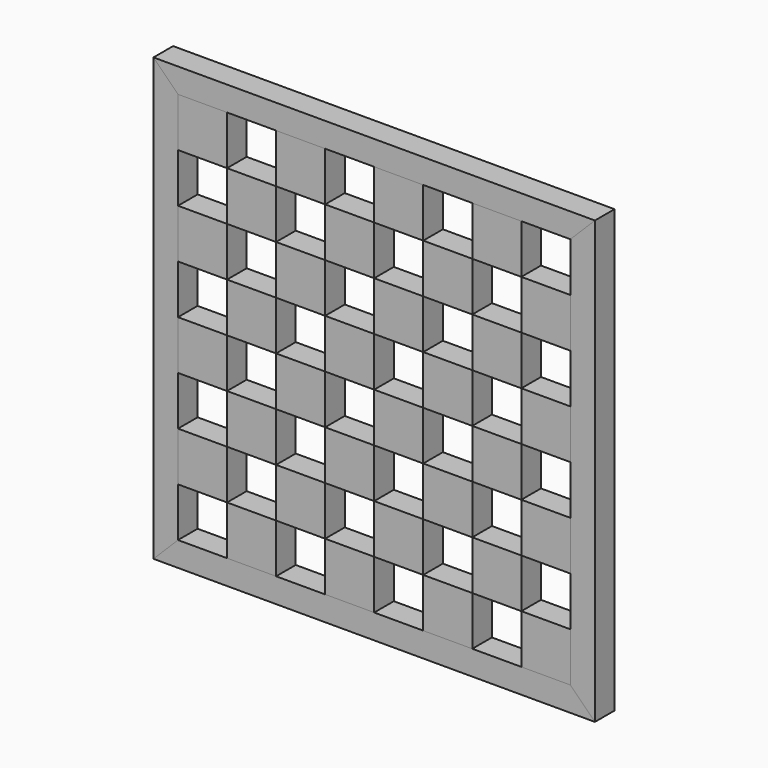
from build123d import *

# Parameters (mm, degrees)
F2_DEPTH = 19.05
F3_DEPTH = 19.05
F4_DEPTH = 19.05
F5_DEPTH = 19.05
F6_W     = 38.1
F6_H     = 38.1
F7_DEPTH = 19.05


with BuildPart() as f2:
    # F1 (on Front) → F2 (new body)
    with BuildSketch(Plane.XZ):
        Polygon((-171.45, 171.45), (-171.45, -171.45), (-152.4, -152.4), (-152.4, 152.4), align=None)
    extrude(amount=F2_DEPTH)


with BuildPart() as f3:
    # F1 (on Front) → F3 (new body)
    with BuildSketch(Plane.XZ):
        Polygon((-171.45, -171.45), (171.45, -171.45), (152.4, -152.4), (-152.4, -152.4), align=None)
    extrude(amount=F3_DEPTH)


with BuildPart() as f4:
    # F1 (on Front) → F4 (new body)
    with BuildSketch(Plane.XZ):
        Polygon((152.4, 152.4), (171.45, 171.45), (-171.45, 171.45), (-152.4, 152.4), align=None)
    extrude(amount=F4_DEPTH)


with BuildPart() as f5:
    # F1 (on Front) → F5 (new body)
    with BuildSketch(Plane.XZ):
        Polygon((152.4, -152.4), (171.45, -171.45), (171.45, 171.45), (152.4, 152.4), align=None)
    extrude(amount=F5_DEPTH)


with BuildPart() as f7:
    # F6 (on Front) → F7 (new body)
    with BuildSketch(Plane.XZ):
        with Locations((-133.35, 133.35)):
            Rectangle(F6_W, F6_H)
    extrude(amount=F7_DEPTH)


with BuildPart() as f7b:
    # F6 (on Front) → F7, piece 2 (new body)
    with BuildSketch(Plane.XZ):
        with Locations((-133.35, 57.15)):
            Rectangle(F6_W, F6_H)
    extrude(amount=F7_DEPTH)


with BuildPart() as f7c:
    # F6 (on Front) → F7, piece 3 (new body)
    with BuildSketch(Plane.XZ):
        with Locations((-133.35, -19.05)):
            Rectangle(F6_W, F6_H)
    extrude(amount=F7_DEPTH)


with BuildPart() as f7d:
    # F6 (on Front) → F7, piece 4 (new body)
    with BuildSketch(Plane.XZ):
        with Locations((-133.35, -95.25)):
            Rectangle(F6_W, F6_H)
    extrude(amount=F7_DEPTH)


with BuildPart() as f7e:
    # F6 (on Front) → F7, piece 5 (new body)
    with BuildSketch(Plane.XZ):
        with Locations((-95.25, -133.35)):
            Rectangle(F6_W, F6_H)
    extrude(amount=F7_DEPTH)


with BuildPart() as f7f:
    # F6 (on Front) → F7, piece 6 (new body)
    with BuildSketch(Plane.XZ):
        with Locations((-95.25, -57.15)):
            Rectangle(F6_W, F6_H)
    extrude(amount=F7_DEPTH)


with BuildPart() as f7g:
    # F6 (on Front) → F7, piece 7 (new body)
    with BuildSketch(Plane.XZ):
        with Locations((-95.25, 19.05)):
            Rectangle(F6_W, F6_H)
    extrude(amount=F7_DEPTH)


with BuildPart() as f7h:
    # F6 (on Front) → F7, piece 8 (new body)
    with BuildSketch(Plane.XZ):
        with Locations((-95.25, 95.25)):
            Rectangle(F6_W, F6_H)
    extrude(amount=F7_DEPTH)


with BuildPart() as f7i:
    # F6 (on Front) → F7, piece 9 (new body)
    with BuildSketch(Plane.XZ):
        with Locations((-57.15, 133.35)):
            Rectangle(F6_W, F6_H)
    extrude(amount=F7_DEPTH)


with BuildPart() as f7j:
    # F6 (on Front) → F7, piece 10 (new body)
    with BuildSketch(Plane.XZ):
        with Locations((-57.15, 57.15)):
            Rectangle(F6_W, F6_H)
    extrude(amount=F7_DEPTH)


with BuildPart() as f7k:
    # F6 (on Front) → F7, piece 11 (new body)
    with BuildSketch(Plane.XZ):
        with Locations((-57.15, -19.05)):
            Rectangle(F6_W, F6_H)
    extrude(amount=F7_DEPTH)


with BuildPart() as f7l:
    # F6 (on Front) → F7, piece 12 (new body)
    with BuildSketch(Plane.XZ):
        with Locations((-57.15, -95.25)):
            Rectangle(F6_W, F6_H)
    extrude(amount=F7_DEPTH)


with BuildPart() as f7m:
    # F6 (on Front) → F7, piece 13 (new body)
    with BuildSketch(Plane.XZ):
        with Locations((-19.05, -133.35)):
            Rectangle(F6_W, F6_H)
    extrude(amount=F7_DEPTH)


with BuildPart() as f7n:
    # F6 (on Front) → F7, piece 14 (new body)
    with BuildSketch(Plane.XZ):
        with Locations((-19.05, -57.15)):
            Rectangle(F6_W, F6_H)
    extrude(amount=F7_DEPTH)


with BuildPart() as f7o:
    # F6 (on Front) → F7, piece 15 (new body)
    with BuildSketch(Plane.XZ):
        with Locations((-19.05, 19.05)):
            Rectangle(F6_W, F6_H)
    extrude(amount=F7_DEPTH)


with BuildPart() as f7p:
    # F6 (on Front) → F7, piece 16 (new body)
    with BuildSketch(Plane.XZ):
        with Locations((-19.05, 95.25)):
            Rectangle(F6_W, F6_H)
    extrude(amount=F7_DEPTH)


with BuildPart() as f7q:
    # F6 (on Front) → F7, piece 17 (new body)
    with BuildSketch(Plane.XZ):
        with Locations((19.05, 133.35)):
            Rectangle(F6_W, F6_H)
    extrude(amount=F7_DEPTH)


with BuildPart() as f7r:
    # F6 (on Front) → F7, piece 18 (new body)
    with BuildSketch(Plane.XZ):
        with Locations((19.05, 57.15)):
            Rectangle(F6_W, F6_H)
    extrude(amount=F7_DEPTH)


with BuildPart() as f7s:
    # F6 (on Front) → F7, piece 19 (new body)
    with BuildSketch(Plane.XZ):
        with Locations((57.15, -57.15)):
            Rectangle(F6_W, F6_H)
    extrude(amount=F7_DEPTH)


with BuildPart() as f7t:
    # F6 (on Front) → F7, piece 20 (new body)
    with BuildSketch(Plane.XZ):
        with Locations((57.15, 19.05)):
            Rectangle(F6_W, F6_H)
    extrude(amount=F7_DEPTH)


with BuildPart() as f7u:
    # F6 (on Front) → F7, piece 21 (new body)
    with BuildSketch(Plane.XZ):
        with Locations((57.15, 95.25)):
            Rectangle(F6_W, F6_H)
    extrude(amount=F7_DEPTH)


with BuildPart() as f7v:
    # F6 (on Front) → F7, piece 22 (new body)
    with BuildSketch(Plane.XZ):
        with Locations((19.05, -95.25)):
            Rectangle(F6_W, F6_H)
    extrude(amount=F7_DEPTH)


with BuildPart() as f7w:
    # F6 (on Front) → F7, piece 23 (new body)
    with BuildSketch(Plane.XZ):
        with Locations((19.05, -19.05)):
            Rectangle(F6_W, F6_H)
    extrude(amount=F7_DEPTH)


with BuildPart() as f7x:
    # F6 (on Front) → F7, piece 24 (new body)
    with BuildSketch(Plane.XZ):
        with Locations((95.25, -95.25)):
            Rectangle(F6_W, F6_H)
    extrude(amount=F7_DEPTH)


with BuildPart() as f7y:
    # F6 (on Front) → F7, piece 25 (new body)
    with BuildSketch(Plane.XZ):
        with Locations((95.25, -19.05)):
            Rectangle(F6_W, F6_H)
    extrude(amount=F7_DEPTH)


with BuildPart() as f7z:
    # F6 (on Front) → F7, piece 26 (new body)
    with BuildSketch(Plane.XZ):
        with Locations((95.25, 57.15)):
            Rectangle(F6_W, F6_H)
    extrude(amount=F7_DEPTH)


with BuildPart() as f7ba:
    # F6 (on Front) → F7, piece 27 (new body)
    with BuildSketch(Plane.XZ):
        with Locations((95.25, 133.35)):
            Rectangle(F6_W, F6_H)
    extrude(amount=F7_DEPTH)


with BuildPart() as f7bb:
    # F6 (on Front) → F7, piece 28 (new body)
    with BuildSketch(Plane.XZ):
        with Locations((133.35, 95.25)):
            Rectangle(F6_W, F6_H)
    extrude(amount=F7_DEPTH)


with BuildPart() as f7bc:
    # F6 (on Front) → F7, piece 29 (new body)
    with BuildSketch(Plane.XZ):
        with Locations((133.35, 19.05)):
            Rectangle(F6_W, F6_H)
    extrude(amount=F7_DEPTH)


with BuildPart() as f7bd:
    # F6 (on Front) → F7, piece 30 (new body)
    with BuildSketch(Plane.XZ):
        with Locations((133.35, -57.15)):
            Rectangle(F6_W, F6_H)
    extrude(amount=F7_DEPTH)


with BuildPart() as f7be:
    # F6 (on Front) → F7, piece 31 (new body)
    with BuildSketch(Plane.XZ):
        with Locations((57.15, -133.35)):
            Rectangle(F6_W, F6_H)
    extrude(amount=F7_DEPTH)


with BuildPart() as f7bf:
    # F6 (on Front) → F7, piece 32 (new body)
    with BuildSketch(Plane.XZ):
        with Locations((133.35, -133.35)):
            Rectangle(F6_W, F6_H)
    extrude(amount=F7_DEPTH)


solid = Compound([f2.part, f3.part, f4.part, f5.part, f7.part, f7b.part, f7c.part, f7d.part, f7e.part, f7f.part, f7g.part, f7h.part, f7i.part, f7j.part, f7k.part, f7l.part, f7m.part, f7n.part, f7o.part, f7p.part, f7q.part, f7r.part, f7s.part, f7t.part, f7u.part, f7v.part, f7w.part, f7x.part, f7y.part, f7z.part, f7ba.part, f7bb.part, f7bc.part, f7bd.part, f7be.part, f7bf.part])
